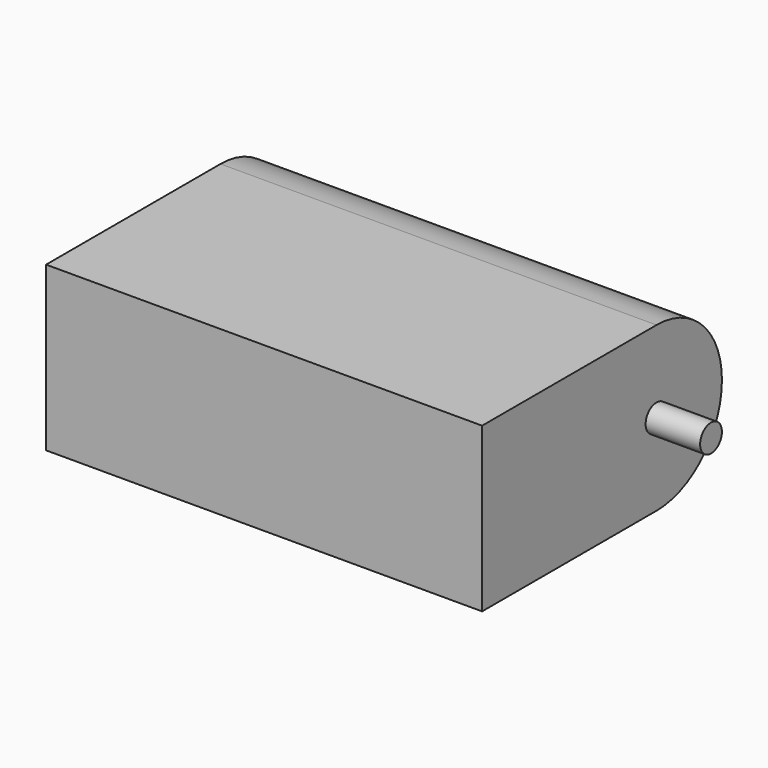
from build123d import *

# Parameters (mm, degrees)
F0_W     = 25.4
F0_H     = 19.05
F1_DEPTH = 50.8
F2_R     = 1.5875
F4_DEPTH = 6.35
F3_R     = 1.5875
F5_DEPTH = 6.35


with BuildPart() as f1:
    # F0 (on Right) → F1 (new body)
    with BuildSketch(Plane.YZ):
        with Locations((-12.7, 9.525)):
            Rectangle(F0_W, F0_H)
        with BuildLine():
            ThreePointArc((0, 0), (9.525, 9.525), (0, 19.05))
            Line((0, 19.05), (0, 0))
        make_face()
    extrude(amount=F1_DEPTH)

    # F2 (on face) → F4 (join)
    with BuildSketch(Plane.YZ.offset(50.8)):
        with Locations((0, 9.525)):
            Circle(F2_R)
    extrude(amount=F4_DEPTH)

    # F3 (on face) → F5 (join)
    with BuildSketch(Plane(origin=(0, 0, 0), x_dir=(0, -1, 0), z_dir=(-1, 0, 0))):
        with Locations((0, 9.525)):
            Circle(F3_R)
    extrude(amount=F5_DEPTH)


solid = f1.part
